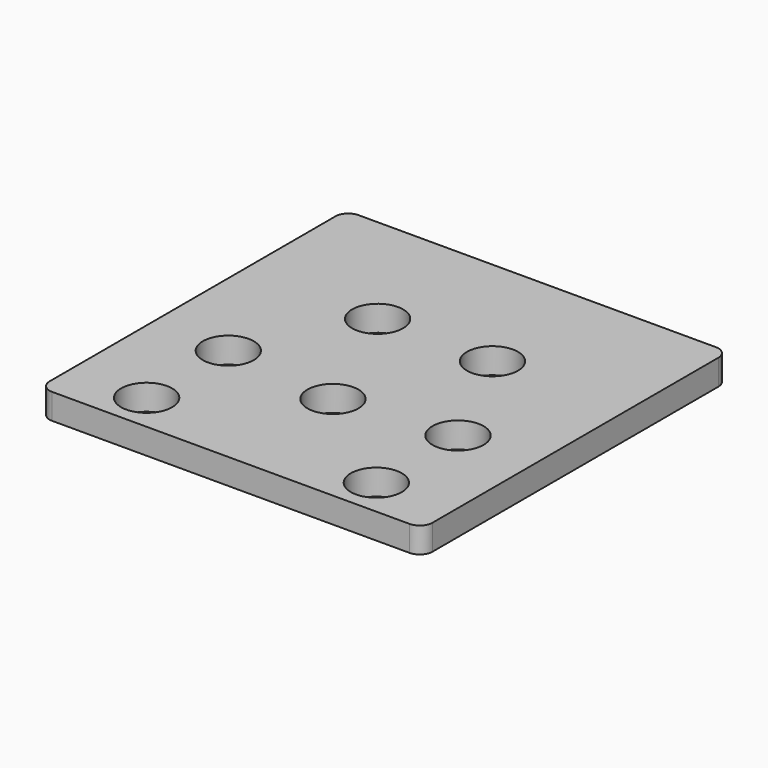
from build123d import *

# Parameters (mm, degrees)
SKETCH_W  = 30
SKETCH_H  = 30
SKETCH_R  = 2
PAD_DEPTH = 2
FILLET_R  = 1


with BuildPart() as part:
    # Sketch → Pad (new body)
    with BuildSketch(Plane.XY):
        Rectangle(SKETCH_W, SKETCH_H)
        with Locations((-9, -12)):
            Circle(SKETCH_R, mode=Mode.SUBTRACT)
        with Locations((-9, -4)):
            Circle(SKETCH_R, mode=Mode.SUBTRACT)
        with Locations((9, -4)):
            Circle(SKETCH_R, mode=Mode.SUBTRACT)
        with Locations((9, -12)):
            Circle(SKETCH_R, mode=Mode.SUBTRACT)
        with Locations((0, -5)):
            Circle(SKETCH_R, mode=Mode.SUBTRACT)
        with Locations((4.5, 5)):
            Circle(SKETCH_R, mode=Mode.SUBTRACT)
        with Locations((-4.5, 5)):
            Circle(SKETCH_R, mode=Mode.SUBTRACT)
    extrude(amount=PAD_DEPTH)

    # Fillet
    fillet_edges = [part.edges().sort_by_distance(p)[0] for p in [
        (-15, -15, 1),
        (15, -15, 1),
        (-15, 15, 1),
        (15, 15, 1),
    ]]
    fillet(fillet_edges, radius=FILLET_R)


solid = part.part
